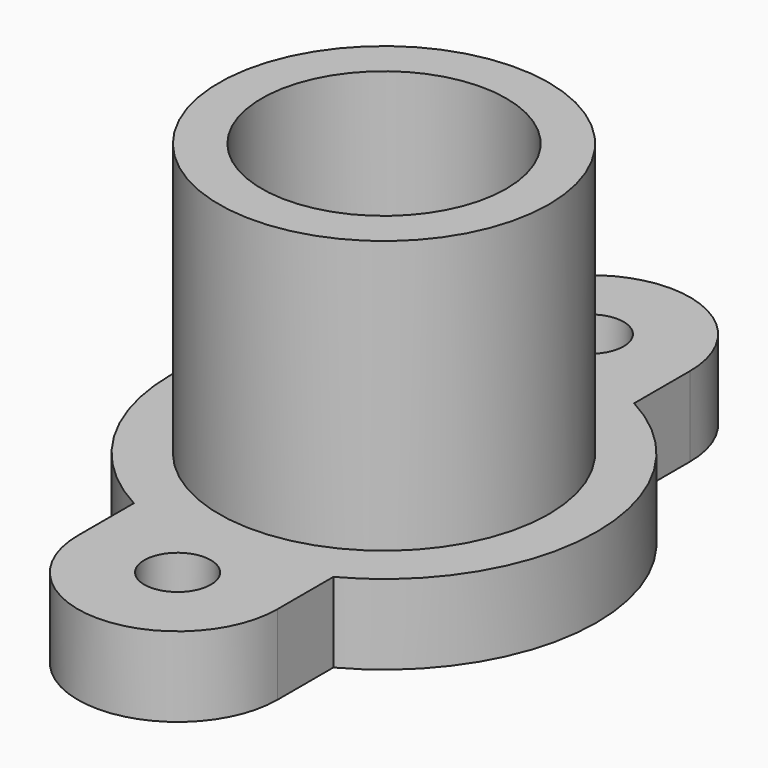
from build123d import *

# Parameters (mm, degrees)
F2_R     = 2.5
F3_DEPTH = 6
F4_SIZE  = 1.5


with BuildPart() as f1:
    # F0 (on Front) → F1 (revolve)
    with BuildSketch(Plane.XZ):
        Polygon((12.4, 2), (12.4, 0), (16, 0), (16, 6), (12.4, 6), (12.4, 26.5), (9.2, 26.5), (9.2, 2), align=None)
    revolve(axis=Axis((0, 0, 0.530642), (0, 0, -1)))

    # F2 (on Top) → F3 (join)
    with BuildSketch(Plane.XY):
        with BuildLine():
            Line((7.5, 14.133294), (7.5, 19.4))
            ThreePointArc((7.5, 19.4), (0, 26.9), (-7.5, 19.4))
            Line((-7.5, 19.4), (-7.5, 14.133294))
            ThreePointArc((-7.5, 14.133294), (0, 16), (7.5, 14.133294))
        make_face()
        with Locations((0, 19.4)):
            Circle(F2_R, mode=Mode.SUBTRACT)
        with BuildLine():
            ThreePointArc((7.5, -14.133294), (0, -16), (-7.5, -14.133294))
            Line((-7.5, -14.133294), (-7.5, -19.4))
            ThreePointArc((-7.5, -19.4), (0, -26.9), (7.5, -19.4))
            Line((7.5, -19.4), (7.5, -14.133294))
        make_face()
        with Locations((0, -19.4)):
            Circle(F2_R, mode=Mode.SUBTRACT)
    extrude(amount=F3_DEPTH)

    # F4
    f4_edges = [f1.edges().sort_by_distance(p)[0] for p in [
        (-2.5, 19.4, 0),
        (-2.5, -19.4, 0),
    ]]
    chamfer(f4_edges, length=F4_SIZE)


solid = f1.part
